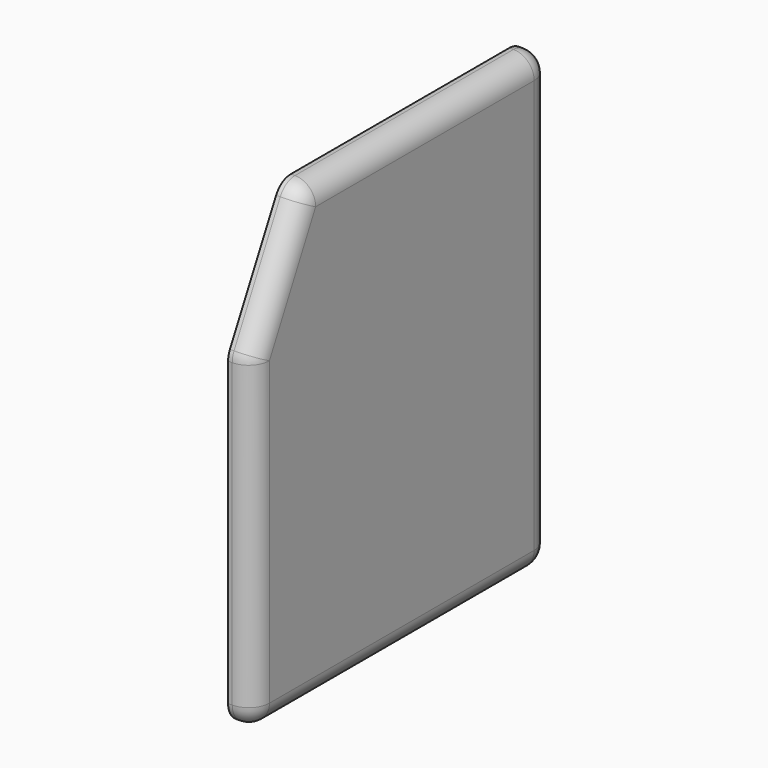
from build123d import *

# Parameters (mm, degrees)
F1_DEPTH = 6
F2_R     = 5


with BuildPart() as f1:
    # F0 (on Right) → F1 (new body)
    with BuildSketch(Plane.YZ):
        Polygon((65.112676, -67.73072), (65.112676, 42.26928), (-8.971831, 42.26928), (-24.887324, 11.371681), (-24.887324, -67.73072), align=None)
    extrude(amount=F1_DEPTH)

    # F2
    f2_edges = [f1.edges().sort_by_distance(p)[0] for p in [
        (6, 65.112676, -12.73072),
        (6, 28.070422, 42.26928),
        (6, -24.887324, -28.17952),
        (6, 20.112676, -67.73072),
        (6, -16.929578, 26.82048),
        (3, -24.887324, 11.371681),
        (3, -8.971831, 42.26928),
        (3, -24.887324, -67.73072),
        (3, 65.112676, 42.26928),
        (3, 65.112676, -67.73072),
    ]]
    fillet(f2_edges, radius=F2_R)


solid = f1.part
